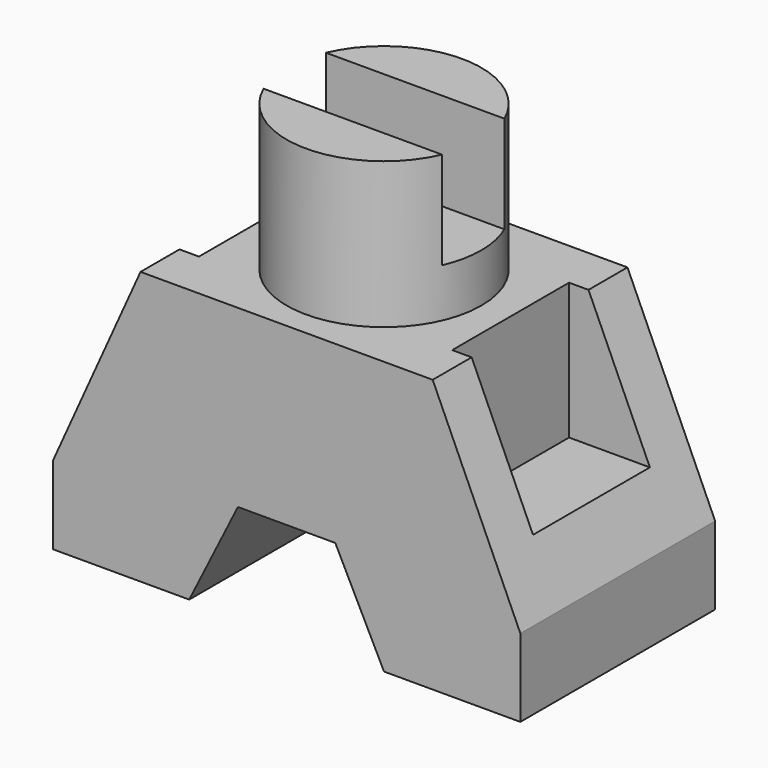
from build123d import *

# Parameters (mm, degrees)
F1_DEPTH   = 25
F2_SIZE2   = 9
F2_SIZE    = 20
F2_2_SIZE2 = 9
F2_2_SIZE  = 20
F3_R       = 10
F4_DEPTH   = 15
F6_DEPTH   = 10
F7_W       = 15
F7_H       = 14
F8_DEPTH   = 11
F9_W       = 15
F9_H       = 14
F10_DEPTH  = 11


with BuildPart() as f1:
    # F0 (on Front) → F1 (new body)
    with BuildSketch(Plane.XZ):
        Polygon((24, 28), (-24, 28), (-24, 0), (-10, 0), (-5, 10), (5, 10), (10, 0), (24, 0), align=None)
    extrude(amount=F1_DEPTH)

    # F2
    f2_edges = [f1.edges().sort_by_distance(p)[0] for p in [
        (-24, -12.5, 28),
    ]]
    f2_side = f1.faces().sort_by_distance((-24, -12.5, 14))[0]
    chamfer(f2_edges, length=F2_SIZE, length2=F2_SIZE2, reference=f2_side)

    # F2#2
    f2_2_edges = [f1.edges().sort_by_distance(p)[0] for p in [
        (24, -12.5, 28),
    ]]
    f2_2_side = f1.faces().sort_by_distance((24, -12.5, 14))[0]
    chamfer(f2_2_edges, length=F2_2_SIZE, length2=F2_2_SIZE2, reference=f2_2_side)

    # F3 (on face) → F4 (join)
    with BuildSketch(Plane.XY.offset(28)):
        with Locations((0, -12.5)):
            Circle(F3_R)
    extrude(amount=F4_DEPTH)

    # F5 (on face) → F6 (cut)
    with BuildSketch(Plane.XY.offset(43)):
        with BuildLine():
            Line((9.1651513899, -8.5), (-9.1651513899, -8.5))
            ThreePointArc((-9.1651513899, -8.5), (-10, -12.5), (-9.1651513899, -16.5))
            Line((-9.1651513899, -16.5), (9.1651513899, -16.5))
            ThreePointArc((9.1651513899, -16.5), (9.7890631293, -14.5430964369), (10, -12.5))
            ThreePointArc((10, -12.5), (9.7890631293, -10.4569035631), (9.1651513899, -8.5))
        make_face()
    extrude(amount=-F6_DEPTH, mode=Mode.SUBTRACT)

    # F7 (on face) → F8 (cut)
    with BuildSketch(Plane.YZ.offset(24)):
        with Locations((-12.5, 21)):
            Rectangle(F7_W, F7_H)
    extrude(amount=-F8_DEPTH, mode=Mode.SUBTRACT)

    # F9 (on face) → F10 (cut)
    with BuildSketch(Plane(origin=(-24, 0, 0), x_dir=(0, -1, 0), z_dir=(-1, 0, 0))):
        with Locations((12.5, 21)):
            Rectangle(F9_W, F9_H)
    extrude(amount=-F10_DEPTH, mode=Mode.SUBTRACT)


solid = f1.part
